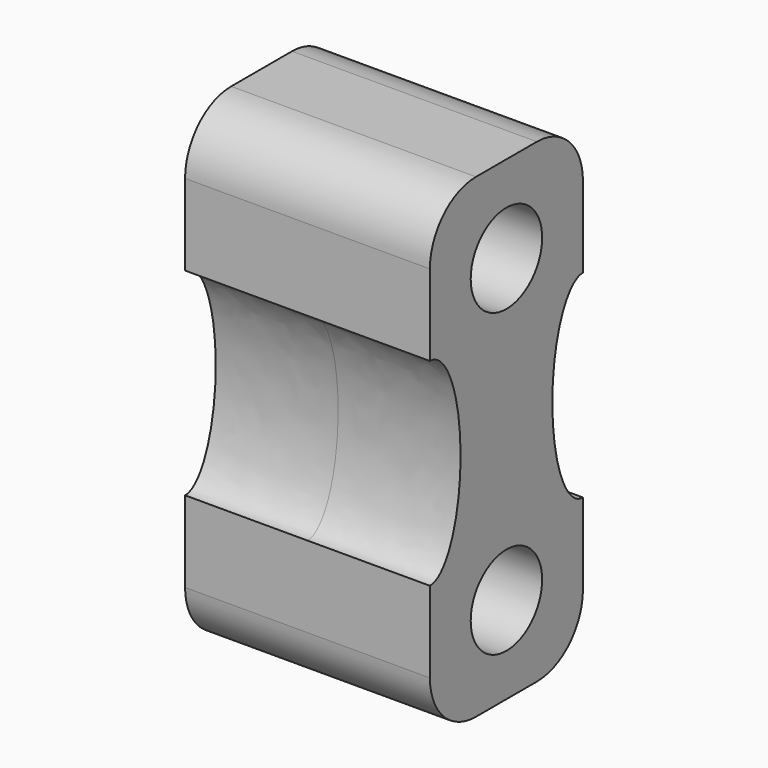
from build123d import *

# Parameters (mm, degrees)
F0_W          = 10.795
F0_H          = 20.955
F1_DEPTH      = 8.4328
F2_R          = 1.9685
F3_DEPTH      = 26.924
F4_DEPTH      = 25.4
F5_R          = 2.54
F7_DEPTH      = 25.4
F7_DEPTH_BACK = 25.4


with BuildPart() as f1:
    # F0 (on Front) → F1 (new body)
    with BuildSketch(Plane.XZ):
        Rectangle(F0_W, F0_H)
    extrude(amount=F1_DEPTH)

    # F2 (on face) → F3 (cut)
    with BuildSketch(Plane(origin=(-5.3975, 0, 0), x_dir=(0, -1, 0), z_dir=(-1, 0, 0))):
        with Locations((4.2164, 6.6338940524)):
            Circle(F2_R)
    extrude(amount=-F3_DEPTH, mode=Mode.SUBTRACT)

    # F2 (on face) → F4 (cut)
    with BuildSketch(Plane(origin=(-5.3975, 0, 0), x_dir=(0, -1, 0), z_dir=(-1, 0, 0))):
        with Locations((4.2164, 6.6338940524)):
            Circle(F2_R)
        with Locations((4.2164, -6.6338940524)):
            Circle(F2_R)
    extrude(amount=-F4_DEPTH, mode=Mode.SUBTRACT)

    # F5
    f5_edges = [f1.edges().sort_by_distance(p)[0] for p in [
        (0, 0, 10.4775),
        (0, -8.4328, 10.4775),
        (0, 0, -10.4775),
        (0, -8.4328, -10.4775),
    ]]
    fillet(f5_edges, radius=F5_R)

    # F6 (on Right) → F7 (cut, two sides)
    with BuildSketch(Plane.YZ) as f7_sk:
        with BuildLine():
            add(Edge.make_bspline(
                [(0, 4.3619680218), (-2.9210566391, 4.3619680218), (-1.4605283196, -2.1809840109), (0, -8.7239360437), (1.4605283196, -2.1809840109), (2.9210566391, 4.3619680218), (0, 4.3619680218)],
                knots=[0, 0, 0, 2.0943951024, 2.0943951024, 4.1887902048, 4.1887902048, 6.2831853072, 6.2831853072, 6.2831853072], degree=2, weights=[1, 0.5, 1, 0.5, 1, 0.5, 1]))
        make_face()
        with BuildLine():
            add(Edge.make_bspline(
                [(-8.4288967773, 4.3619680218), (-11.3499534165, 4.3619680218), (-9.8894250969, -2.1809840109), (-8.4288967773, -8.7239360437), (-6.9683684578, -2.1809840109), (-5.5078401382, 4.3619680218), (-8.4288967773, 4.3619680218)],
                knots=[0, 0, 0, 2.0943951024, 2.0943951024, 4.1887902048, 4.1887902048, 6.2831853072, 6.2831853072, 6.2831853072], degree=2, weights=[1, 0.5, 1, 0.5, 1, 0.5, 1]))
        make_face()
    extrude(amount=-F7_DEPTH, mode=Mode.SUBTRACT)
    extrude(f7_sk.sketch, amount=F7_DEPTH_BACK, mode=Mode.SUBTRACT)


solid = f1.part
